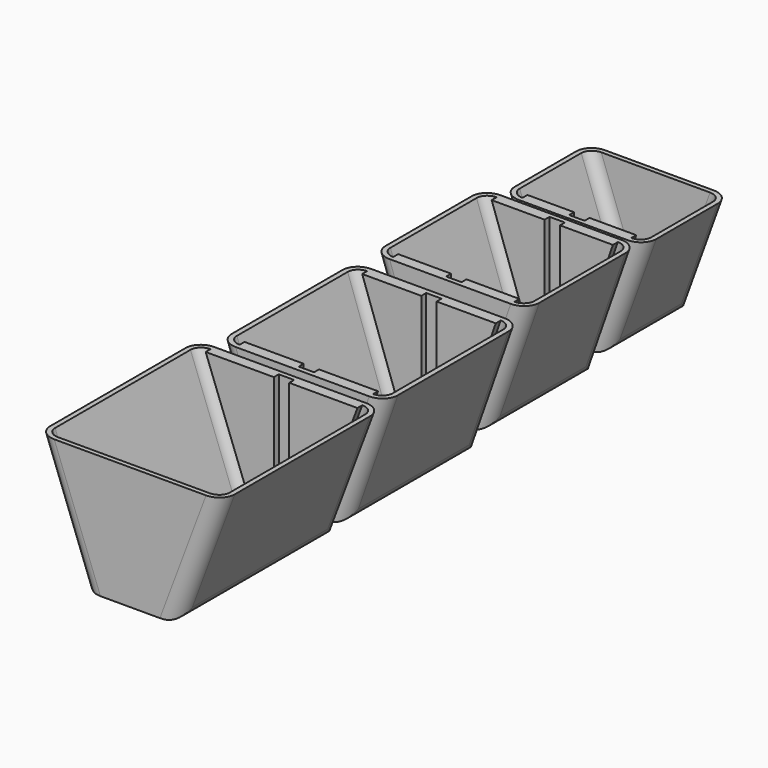
from build123d import *

# Parameters (mm, degrees)
F1_DEPTH  = 65
F2_R      = 5
F5_DEPTH  = 55
F6_R      = 5
F9_DEPTH  = 45
F10_R     = 5
F13_DEPTH = 35
F14_R     = 5
F15_T     = -1.6
F16_T     = -1.5
F17_T     = -1.5
F18_T     = -1.5
F20_DEPTH = 2
F22_DEPTH = 2
F24_DEPTH = 2
F26_DEPTH = 2
F28_DEPTH = 2
F30_DEPTH = 2


with BuildPart() as f1:
    # F0 (on Front) → F1 (new body)
    with BuildSketch(Plane.XZ):
        Polygon((30, 23.901118), (0, 23.901118), (-30, 23.901118), (-15, -16.098882), (0, -16.098882), (15, -16.098882), align=None)
    extrude(amount=F1_DEPTH)

    # F2
    f2_edges = [f1.edges().sort_by_distance(p)[0] for p in [
        (-15, -32.5, -16.098882),
        (15, -32.5, -16.098882),
        (-22.5, -65, 3.901118),
        (22.5, -65, 3.901118),
        (22.5, 0, 3.901118),
        (-22.5, 0, 3.901118),
    ]]
    fillet(f2_edges, radius=F2_R)

    # F17
    f17_openings = [f1.faces().sort_by_distance(p)[0] for p in [
        (0, -32.5, 23.901118),
    ]]
    offset(amount=F17_T, openings=f17_openings)

    # F29 (on face) → F30 (join)
    with BuildSketch(Plane.XZ.offset(1.5)):
        Polygon((-2.5, -14.598882), (-2.5, 23.901118), (-24.659998, 23.901118), (-10.222498, -14.598882), align=None)
        Polygon((24.659998, 23.901118), (2.5, 23.901118), (2.5, -14.598882), (10.222498, -14.598882), align=None)
    extrude(amount=F30_DEPTH)


with BuildPart() as f5:
    # F4 (on offset) → F5 (new body)
    with BuildSketch(Plane.XZ.offset(-60)):
        Polygon((27, 22.816903), (0, 22.816903), (-27, 22.816903), (-13, -17.183097), (0, -17.183097), (13, -17.183097), align=None)
    extrude(amount=F5_DEPTH)

    # F6
    f6_edges = [f5.edges().sort_by_distance(p)[0] for p in [
        (20, 60, 2.816903),
        (-20, 60, 2.816903),
        (13, 32.5, -17.183097),
        (-13, 32.5, -17.183097),
        (-20, 5, 2.816903),
        (20, 5, 2.816903),
    ]]
    fillet(f6_edges, radius=F6_R)

    # F15
    f15_openings = [f5.faces().sort_by_distance(p)[0] for p in [
        (0, 32.5, 22.816903),
    ]]
    offset(amount=F15_T, openings=f15_openings)

    # F25 (on face) → F26 (join)
    with BuildSketch(Plane.XZ.offset(-58.4)):
        Polygon((-2.5, -15.583097), (-2.5, 22.816903), (-21.702595, 22.816903), (-8.262595, -15.583097), align=None)
        Polygon((21.702595, 22.816903), (2.5, 22.816903), (2.5, -15.583097), (8.262595, -15.583097), align=None)
    extrude(amount=F26_DEPTH)

    # F27 (on face) → F28 (join)
    with BuildSketch(Plane(origin=(0, 6.6, 0), x_dir=(-1, 0, 0), z_dir=(0, 1, 0))):
        Polygon((2.5, 22.816903), (2.5, -15.583097), (8.262595, -15.583097), (21.702595, 22.816903), align=None)
        Polygon((-8.262595, -15.583097), (-2.5, -15.583097), (-2.5, 22.816903), (-21.702595, 22.816903), align=None)
    extrude(amount=F28_DEPTH)


with BuildPart() as f9:
    # F8 (on offset) → F9 (new body)
    with BuildSketch(Plane.XZ.offset(-110)):
        Polygon((25, 24.240877), (0, 24.240877), (-25, 24.240877), (-11, -15.759123), (0, -15.759123), (11, -15.759123), align=None)
    extrude(amount=F9_DEPTH)

    # F10
    f10_edges = [f9.edges().sort_by_distance(p)[0] for p in [
        (18, 110, 4.240877),
        (-18, 110, 4.240877),
        (11, 87.5, -15.759123),
        (-11, 87.5, -15.759123),
        (18, 65, 4.240877),
        (-18, 65, 4.240877),
    ]]
    fillet(f10_edges, radius=F10_R)

    # F18
    f18_openings = [f9.faces().sort_by_distance(p)[0] for p in [
        (0, 87.5, 24.240877),
    ]]
    offset(amount=F18_T, openings=f18_openings)

    # F19 (on face) → F20 (join)
    with BuildSketch(Plane.XZ.offset(-108.5)):
        Polygon((2.49981, 24.240877), (2.49981, -14.259123), (6.227405, -14.259123), (19.702405, 24.240877), align=None)
        Polygon((-6.227595, -14.259123), (-2.5, -14.259123), (-2.5, 24.240877), (-19.702595, 24.240877), align=None)
    extrude(amount=F20_DEPTH)

    # F21 (on face) → F22 (join)
    with BuildSketch(Plane(origin=(0, 66.5, 0), x_dir=(-1, 0, 0), z_dir=(0, 1, 0))):
        Polygon((-6.227595, -14.259123), (-2.5, -14.259123), (-2.5, 24.240877), (-19.702595, 24.240877), align=None)
        Polygon((2.5, -14.259123), (6.227595, -14.259123), (19.702595, 24.240877), (2.5, 24.240877), align=None)
    extrude(amount=F22_DEPTH)


with BuildPart() as f13:
    # F12 (on offset) → F13 (new body)
    with BuildSketch(Plane.XZ.offset(-150)):
        Polygon((23, 21.498091), (0, 21.498091), (-23, 21.498091), (-10, -14.272978), (0, -14.272978), (10, -14.272978), align=None)
    extrude(amount=F13_DEPTH)

    # F14
    f14_edges = [f13.edges().sort_by_distance(p)[0] for p in [
        (16.5, 150, 3.612557),
        (-16.5, 150, 3.612557),
        (10, 132.5, -14.272978),
        (-10, 132.5, -14.272978),
        (16.5, 115, 3.612557),
        (-16.5, 115, 3.612557),
    ]]
    fillet(f14_edges, radius=F14_R)

    # F16
    f16_openings = [f13.faces().sort_by_distance(p)[0] for p in [
        (0, 132.5, 21.498091),
    ]]
    offset(amount=F16_T, openings=f16_openings)

    # F23 (on face) → F24 (join)
    with BuildSketch(Plane(origin=(0, 116.5, 0), x_dir=(-1, 0, 0), z_dir=(0, 1, 0))):
        Polygon((-5.225181, -12.772978), (-2.5, -12.772978), (-2.5, 21.498091), (-17.680048, 21.498091), align=None)
        Polygon((2.5, 21.498091), (2.5, -12.772978), (5.225181, -12.772978), (17.680048, 21.498091), align=None)
    extrude(amount=F24_DEPTH)


solid = Compound([f1.part, f5.part, f9.part, f13.part])
